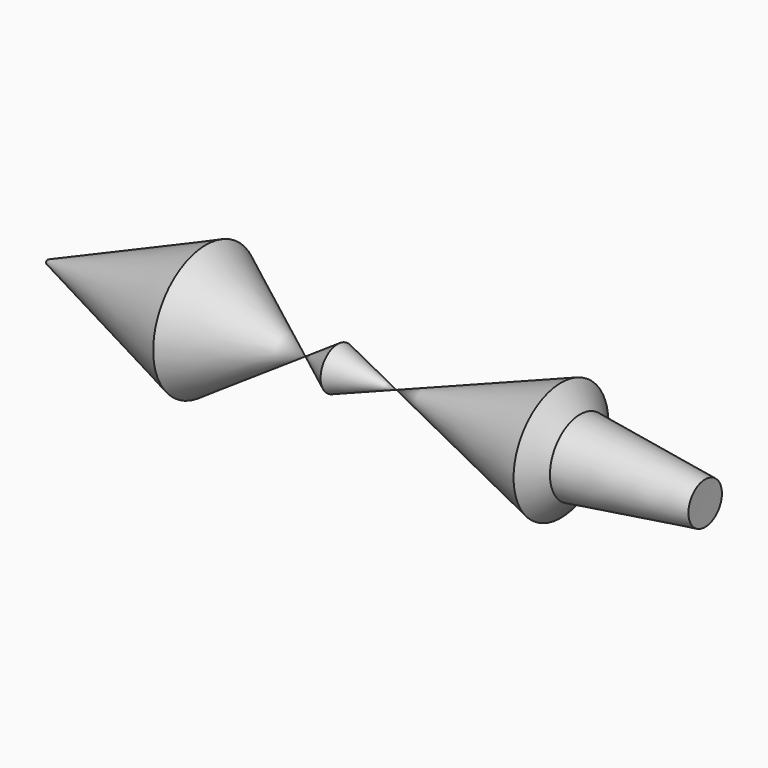
from build123d import *


with BuildPart() as f1:
    # F0 (on Top) → F1 (revolve)
    with BuildSketch(Plane.XY):
        Polygon((-41.0577617586, 14.2875006422), (-75.9493410587, 0), (-76.2501358986, -0.451184198), (-18.9884137192, -0.2737201933), align=None)
    revolve(axis=Axis((-3.4590810537, -0.225592099, 0), (0.9999951976, 0.0030991585, 0)))


with BuildPart() as f1b:
    # F0 (on Top) → F1, piece 2 (revolve)
    with BuildSketch(Plane.XY):
        Polygon((1.1064774595, -0.2114426416), (-18.9884137192, -0.2737201933), (-11.8811847642, -4.963026382), align=None)
    revolve(axis=Axis((-3.4590810537, -0.225592099, 0), (0.9999951976, 0.0030991585, 0)))


with BuildPart() as f1c:
    # F0 (on Top) → F1, piece 3 (revolve)
    with BuildSketch(Plane.XY):
        Polygon((37.4482907355, 13.0843427032), (1.1064774595, -0.2114426416), (69.3319737911, 0), (69.3319737911, 4.6622371301), (41.6593439877, 8.2717109472), align=None)
    revolve(axis=Axis((-3.4590810537, -0.225592099, 0), (0.9999951976, 0.0030991585, 0)))


solid = Compound([f1.part, f1b.part, f1c.part])
